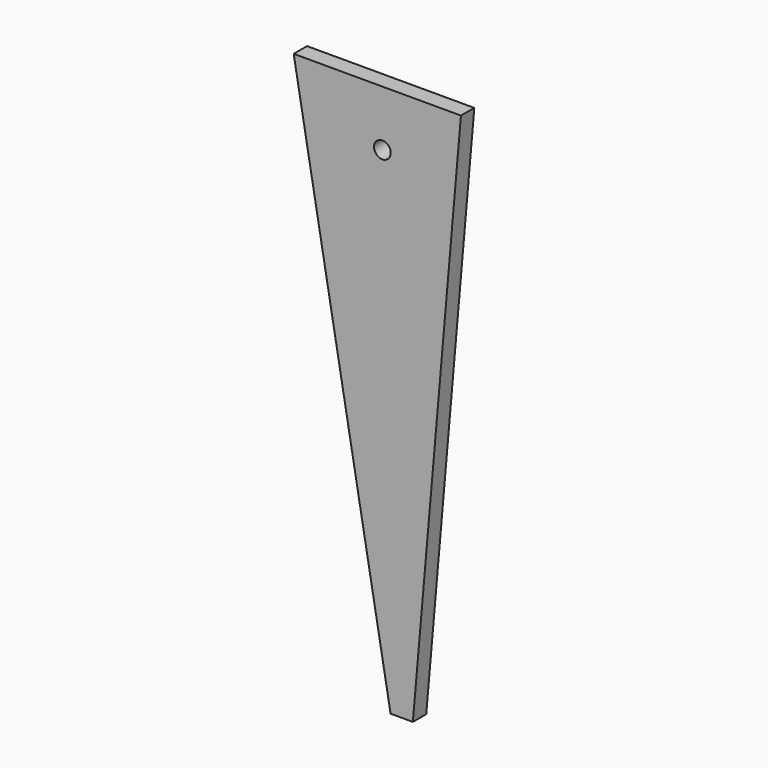
from build123d import *

# Parameters (mm, degrees)
F1_DEPTH = 1.5
F2_R     = 1.5
F3_DEPTH = 3.001


with BuildPart() as f1:
    # F0 (on Front) → F1 (new body, symmetric)
    with BuildSketch(Plane.XZ):
        Polygon((9.3070869749, 19.1913165577), (-20.6929130251, 19.1913165577), (-3.315241918, -79.3623536595), (0.684758082, -79.3623536595), align=None)
    extrude(amount=F1_DEPTH, both=True)

    # F2 (on face) → F3 (cut, through all)
    with BuildSketch(Plane(origin=(0, 1.5, 0), x_dir=(-1, 0, 0), z_dir=(0, 1, 0))):
        with Locations((4.7879153863, 9.1913165577)):
            Circle(F2_R)
    extrude(amount=-F3_DEPTH, mode=Mode.SUBTRACT)


solid = f1.part
